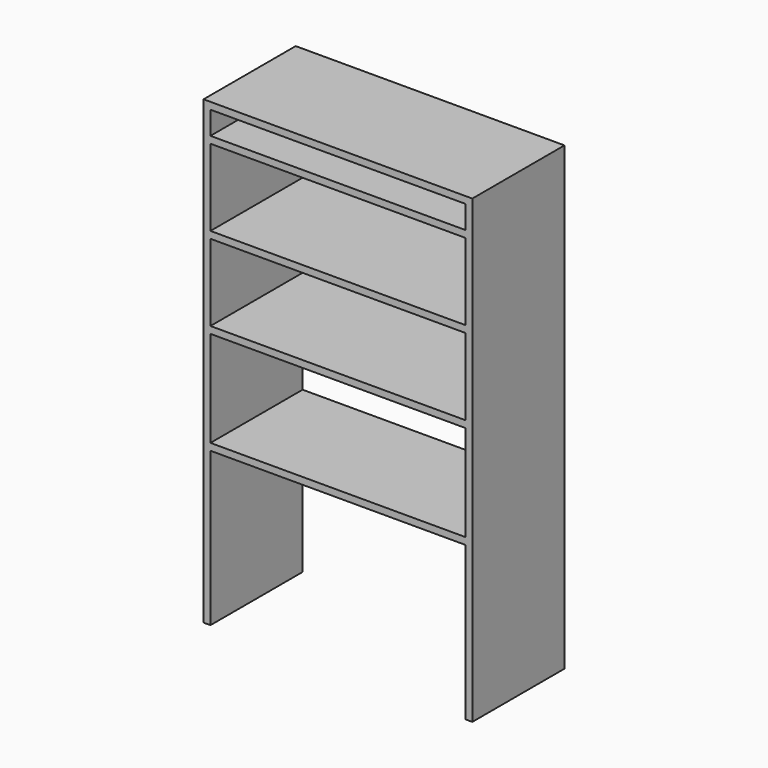
from build123d import *

# Parameters (mm, degrees)
F0_W     = 664
F0_H     = 250
F0_H_2   = 200
F0_H_3   = 60
F1_DEPTH = 300


with BuildPart() as f1:
    # F0 (on Front) → F1 (new body)
    with BuildSketch(Plane.XZ):
        Polygon((0, 1200), (0, 0), (18, 0), (18, 400), (682, 400), (682, 0), (700, 0), (700, 1200), (682, 1200), (18, 1200), align=None)
        with Locations((350, 543)):
            Rectangle(F0_W, F0_H, mode=Mode.SUBTRACT)
        with Locations((350, 786)):
            Rectangle(F0_W, F0_H_2, mode=Mode.SUBTRACT)
        with Locations((350, 1004)):
            Rectangle(F0_W, F0_H_2, mode=Mode.SUBTRACT)
        with Locations((350, 1152)):
            Rectangle(F0_W, F0_H_3, mode=Mode.SUBTRACT)
    extrude(amount=F1_DEPTH)


solid = f1.part
